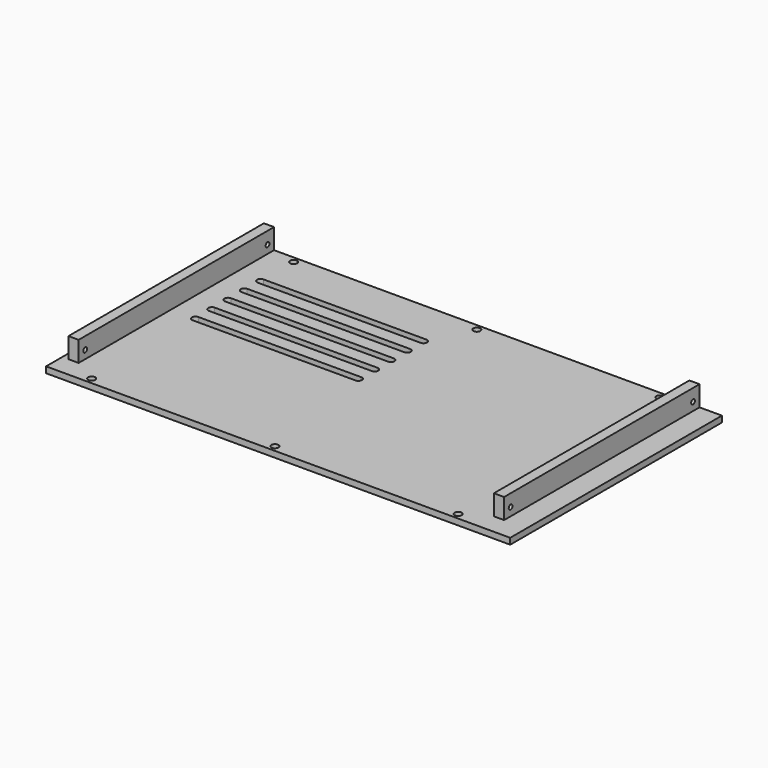
from build123d import *

# Parameters (mm, degrees)
SKETCH_W     = 228
SKETCH_H     = 130
SKETCH_R     = 1.75
PAD_DEPTH    = 3
SKETCH001_W  = 5
SKETCH001_H  = 120
PAD001_DEPTH = 13
SKETCH002_R  = 1.15
POCKET_DEPTH = 112.5


with BuildPart() as part:
    # Sketch → Pad (new body)
    with BuildSketch(Plane.XY):
        with Locations((4, 0)):
            Rectangle(SKETCH_W, SKETCH_H)
        with Locations((-90, 62)):
            Circle(SKETCH_R, mode=Mode.SUBTRACT)
        with Locations((0, 62)):
            Circle(SKETCH_R, mode=Mode.SUBTRACT)
        with Locations((90, 62)):
            Circle(SKETCH_R, mode=Mode.SUBTRACT)
        with Locations((-90, -62)):
            Circle(SKETCH_R, mode=Mode.SUBTRACT)
        with Locations((0, -62)):
            Circle(SKETCH_R, mode=Mode.SUBTRACT)
        with Locations((90, -62)):
            Circle(SKETCH_R, mode=Mode.SUBTRACT)
        with BuildLine():
            ThreePointArc((-90, 43.5), (-91.75, 41.75), (-90, 40))
            Line((-90, 40), (-10, 40))
            ThreePointArc((-10, 40), (-8.25, 41.75), (-10, 43.5))
            Line((-90, 43.5), (-10, 43.5))
        make_face(mode=Mode.SUBTRACT)
        with BuildLine():
            ThreePointArc((-90, 33.5), (-91.75, 31.75), (-90, 30))
            Line((-90, 30), (-10, 30))
            ThreePointArc((-10, 30), (-8.25, 31.75), (-10, 33.5))
            Line((-90, 33.5), (-10, 33.5))
        make_face(mode=Mode.SUBTRACT)
        with BuildLine():
            ThreePointArc((-90, 23.5), (-91.75, 21.75), (-90, 20))
            Line((-90, 20), (-10, 20))
            ThreePointArc((-10, 20), (-8.25, 21.75), (-10, 23.5))
            Line((-90, 23.5), (-10, 23.5))
        make_face(mode=Mode.SUBTRACT)
        with BuildLine():
            ThreePointArc((-90, 13.5), (-91.75, 11.75), (-90, 10))
            Line((-90, 10), (-10, 10))
            ThreePointArc((-10, 10), (-8.25, 11.75), (-10, 13.5))
            Line((-90, 13.5), (-10, 13.5))
        make_face(mode=Mode.SUBTRACT)
        with BuildLine():
            ThreePointArc((-90, 3.5), (-91.75, 1.75), (-90, 0))
            Line((-90, 0), (-10, 0))
            ThreePointArc((-10, 0), (-8.25, 1.75), (-10, 3.5))
            Line((-90, 3.5), (-10, 3.5))
        make_face(mode=Mode.SUBTRACT)
    extrude(amount=PAD_DEPTH)

    # Sketch001 → Pad001 (join)
    with BuildSketch(Plane.XY):
        with Locations((104.5, 5)):
            Rectangle(SKETCH001_W, SKETCH001_H)
        with Locations((-104.5, 5)):
            Rectangle(SKETCH001_W, SKETCH001_H)
    extrude(amount=PAD001_DEPTH)

    # Sketch002 → Pocket (cut, symmetric)
    with BuildSketch(Plane.YZ):
        with Locations((-51, 7)):
            Circle(SKETCH002_R)
        with Locations((61, 7)):
            Circle(SKETCH002_R)
    extrude(amount=POCKET_DEPTH, both=True, mode=Mode.SUBTRACT)


solid = part.part
